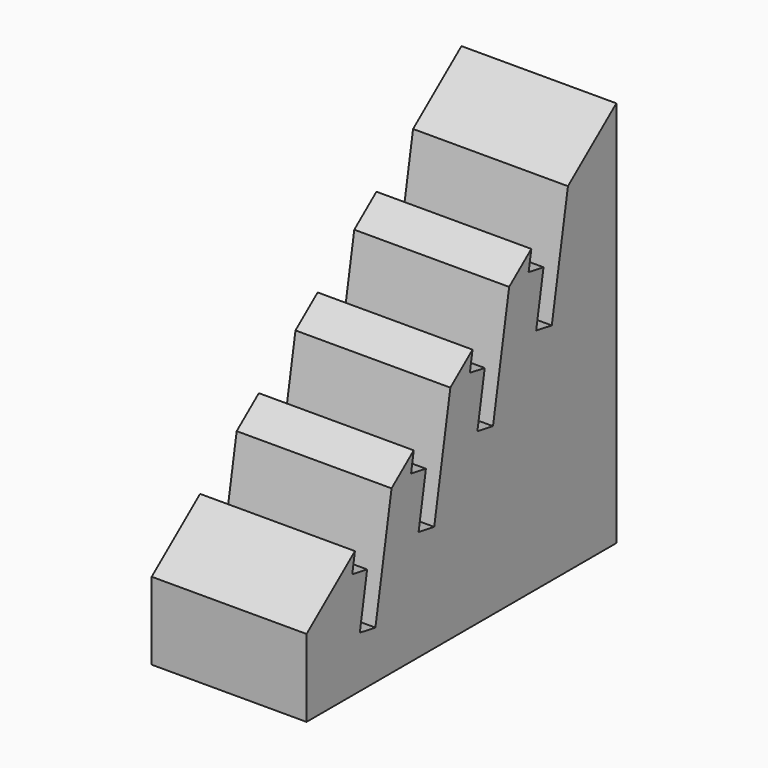
from build123d import *

# Parameters (mm, degrees)
F2_DEPTH = 25.4
F3_DEPTH = 25.4


with BuildPart() as f2:
    # F0 (on Right) → F2 (new body)
    with BuildSketch(Plane.YZ):
        Polygon((0, 12.7), (0, 0), (63.5, 0), (63.5, 63.5), align=None)
    extrude(amount=F2_DEPTH)

    # F1 (on Right) → F3 (cut)
    with BuildSketch(Plane.YZ):
        Polygon((17.4239271212, 26.6391416969), (9.9170338799, 20.6336271039), (9.3657009158, 17.5068624881), (12.4174231809, 16.9687615152), (10.91412237, 8.4431189573), (14.1159293366, 7.8785540021), align=None)
        Polygon((29.4769401208, 36.2815520967), (21.9700468796, 30.2760375036), (21.4187139155, 27.1492728878), (24.4704361805, 26.6111719149), (22.9671353697, 18.085529357), (26.1689423363, 17.5209644018), align=None)
        Polygon((41.5299531204, 45.9239624964), (34.0230598792, 39.9184479033), (33.4717269151, 36.7916832875), (36.5234491801, 36.2535823146), (35.0201483693, 27.7279397567), (38.2219553359, 27.1633748015), align=None)
        Polygon((53.5829661201, 55.5663728961), (46.0760728788, 49.5608583031), (45.5247399147, 46.4340936872), (48.5764621798, 45.8959927143), (47.0731613689, 37.3703501564), (50.2749683355, 36.8057852012), align=None)
    extrude(amount=F3_DEPTH, mode=Mode.SUBTRACT)


solid = f2.part
